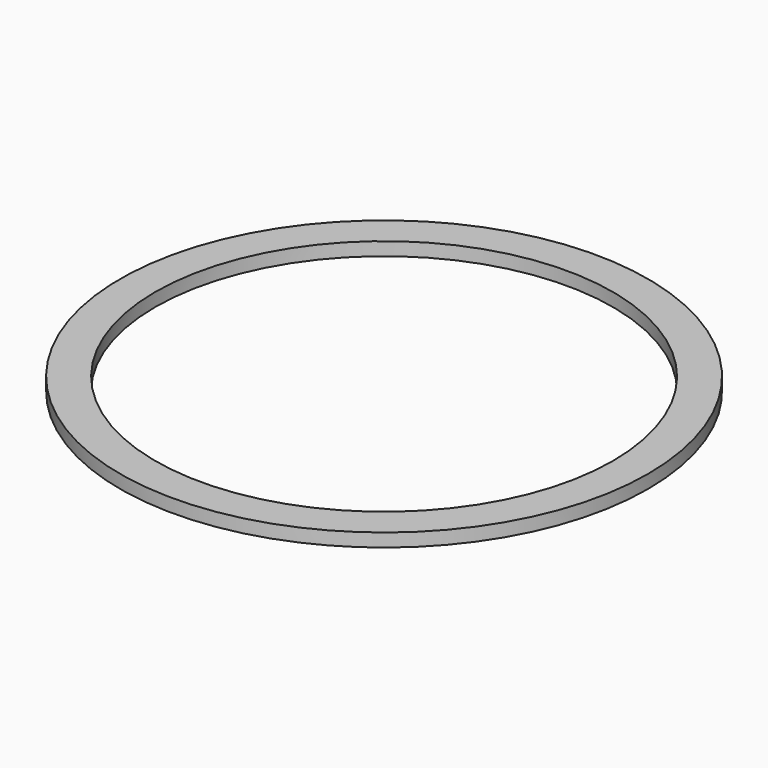
from build123d import *

# Parameters (mm, degrees)
SKETCH_R   = 39.8
SKETCH_R_2 = 34.5
PAD_DEPTH  = 2


with BuildPart() as part:
    # Sketch → Pad (new body)
    with BuildSketch(Plane.XY):
        Circle(SKETCH_R)
        Circle(SKETCH_R_2, mode=Mode.SUBTRACT)
    extrude(amount=PAD_DEPTH)


solid = part.part
